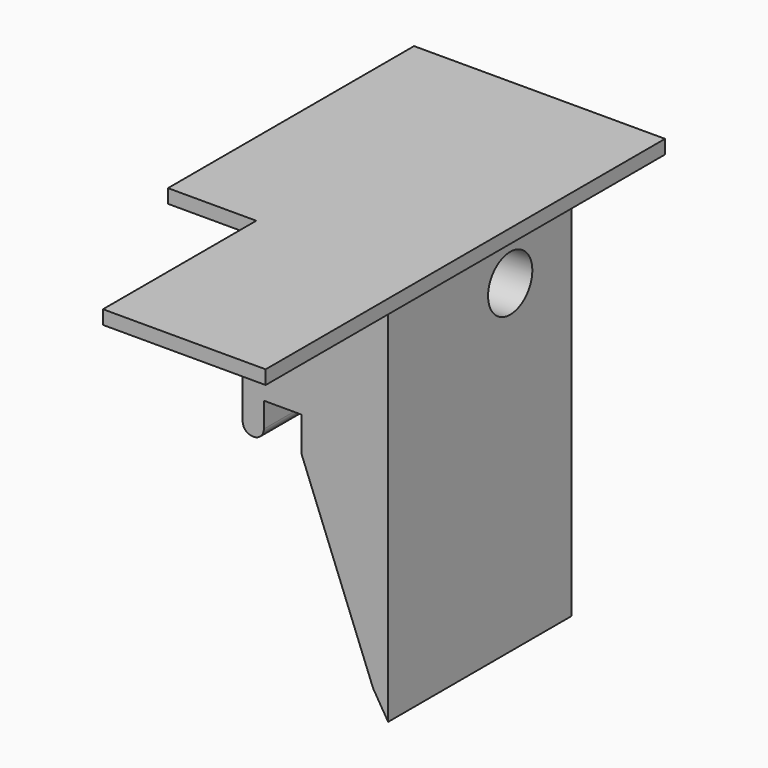
from build123d import *

# Parameters (mm, degrees)
F1_DEPTH = 18.9484
F3_DEPTH = 1.143
F4_R     = 0.8382
F5_W     = 11.43
F5_H     = 12.5984
F6_DEPTH = 8.3058
F8_D     = 4.572


with BuildPart() as f1:
    # F0 (on Front) → F1 (new body)
    with BuildSketch(Plane.XZ):
        Polygon((0, 26.304375), (-12.0142, 26.304375), (-12.0142, 8.778375), (-10.2616, 8.778375), (-10.2616, 11.673975), (-7.1374, 11.673975), (-7.1374, 8.778375), (-1.245109, -6.297331), (0, -8.341225), align=None)
    extrude(amount=F1_DEPTH)

    # F2 (on face) → F3 (join)
    with BuildSketch(Plane.XY.offset(26.304375)):
        Polygon((6.0198, 2.1082), (-14.7066, 2.1082), (-14.7066, -23.2918), (-7.414963, -23.2918), (-7.414963, -39.116), (6.0198, -39.116), align=None)
    extrude(amount=F3_DEPTH)

    # F4
    f4_edges = [f1.edges().sort_by_distance(p)[0] for p in [
        (-12.0142, -9.4742, 8.778375),
        (-10.2616, -9.4742, 8.778375),
    ]]
    fillet(f4_edges, radius=F4_R)

    # F5 (on face) → F6 (cut)
    with BuildSketch(Plane(origin=(-12.0142, 0, 0), x_dir=(0, -1, 0), z_dir=(-1, 0, 0))):
        with Locations((5.715, 20.005175)):
            Rectangle(F5_W, F5_H)
    extrude(amount=-F6_DEPTH, mode=Mode.SUBTRACT)

    # F8 (through all)
    with Locations(Plane(origin=(-3.7084, 0, 0), x_dir=(0, -1, 0), z_dir=(-1, 0, 0))):
        with Locations((6.35, 18.430375)):
            Hole(F8_D / 2)


solid = f1.part
